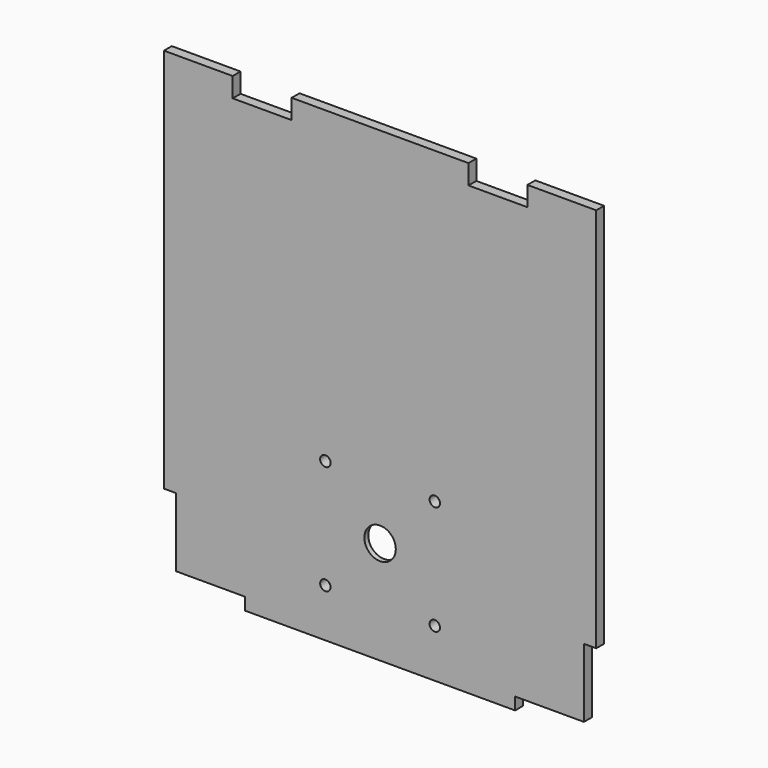
from build123d import *

# Parameters (mm, degrees)
F0_R     = 10.16
F1_DEPTH = 6.35
F2_D     = 6.7564
F3_R     = 41.275
F4_DEPTH = 3.175
F6_DEPTH = 25.4


with BuildPart() as f1:
    # F0 (on Front) → F1 (new body)
    with BuildSketch(Plane.XZ):
        Polygon((0, 301.625), (0, 0), (279.4, 0), (279.4, 301.625), (234.95, 301.625), (234.95, 288.925), (196.85, 288.925), (196.85, 301.625), (82.55, 301.625), (82.55, 288.925), (44.45, 288.925), (44.45, 301.625), align=None)
        with Locations((139.7, 66.675)):
            Circle(F0_R, mode=Mode.SUBTRACT)
    extrude(amount=F1_DEPTH)

    # F2 (through all)
    with Locations(Plane(origin=(0, 0, 0), x_dir=(1, 0, 0), z_dir=(0, 1, 0))):
        with Locations((175.0552683486, -102.0302683486), (104.3447316514, -102.0302683486), (175.0552683486, -31.3197316514), (104.3447316514, -31.3197316514)):
            Hole(F2_D / 2)

    # F3 (on face) → F4 (cut)
    with BuildSketch(Plane(origin=(0, 0, 0), x_dir=(-1, 0, 0), z_dir=(0, 1, 0))):
        with Locations((-139.7, 66.675)):
            Circle(F3_R)
    extrude(amount=-F4_DEPTH, mode=Mode.SUBTRACT)

    # F5 (on face) → F6 (cut)
    with BuildSketch(Plane.XZ.offset(6.35)):
        Polygon((227.0125, 7.9375), (227.0125, 0), (279.4, 0), (279.4, 52.3875), (271.4625, 52.3875), (271.4625, 7.9375), align=None)
        Polygon((0, 0), (52.3875, 0), (52.3875, 7.9375), (7.9375, 7.9375), (7.9375, 52.3875), (0, 52.3875), align=None)
    extrude(amount=-F6_DEPTH, mode=Mode.SUBTRACT)


with BuildPart() as f7_1:
    # F7: copy of F1
    add(f1.part)


solid = Compound([f1.part, f7_1.part])
